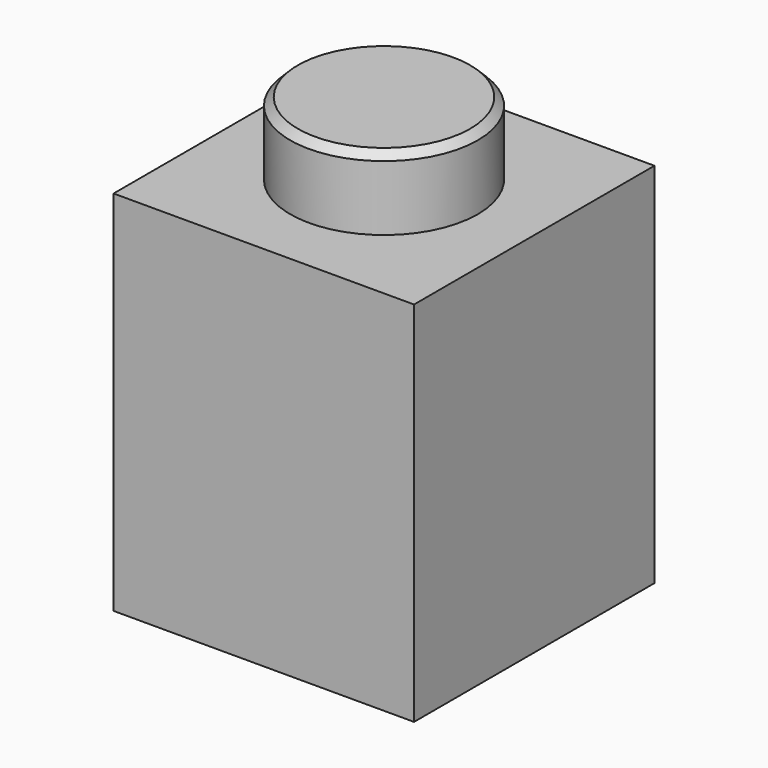
from build123d import *

# Parameters (mm, degrees)
F0_W     = 7.85
F0_H     = 7.85
F1_DEPTH = 9.6
F2_R     = 2.45
F3_DEPTH = 1.9
F4_T     = -1.45
F5_SIZE  = 0.2


with BuildPart() as f1:
    # F0 (on Top) → F1 (new body)
    with BuildSketch(Plane.XY):
        Rectangle(F0_W, F0_H)
    extrude(amount=F1_DEPTH)

    # F2 (on face) → F3 (join)
    with BuildSketch(Plane.XY.offset(9.6)):
        Circle(F2_R)
    extrude(amount=F3_DEPTH)

    # F4
    f4_openings = [f1.faces().sort_by_distance(p)[0] for p in [
        (0, 0, 0),
    ]]
    offset(amount=F4_T, openings=f4_openings, kind=Kind.INTERSECTION)

    # F5
    f5_edges = [f1.edges().sort_by_distance(p)[0] for p in [
        (-2.45, 0, 11.5),
    ]]
    chamfer(f5_edges, length=F5_SIZE)


solid = f1.part
